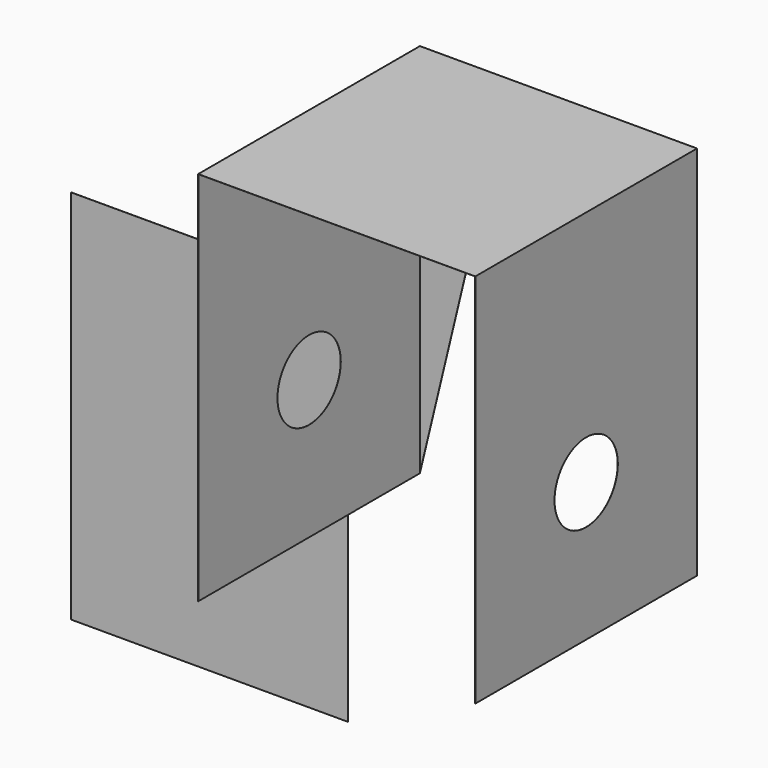
from build123d import *

# Parameters (mm, degrees)
F0_W      = 88.9
F0_H      = 120.65
F1_DEPTH  = 88.9
F3_T      = -0.0254
F4_DEPTH  = 25.4
F5_R      = 12.7
F6_DEPTH  = 127
F7_W      = 88.8492
F7_H      = 120.6246
F8_DEPTH  = 12.7
F9_W      = 88.9
F9_H      = 120.65
F10_DEPTH = 0.0254


with BuildPart() as f1:
    # F0 (on Front) → F1 (new body)
    with BuildSketch(Plane.XZ):
        with Locations((44.45, 60.325)):
            Rectangle(F0_W, F0_H)
    extrude(amount=F1_DEPTH)

    # F3
    f3_openings = [f1.faces().sort_by_distance(p)[0] for p in [
        (44.45, -44.45, 0),
    ]]
    offset(amount=F3_T, openings=f3_openings)

    # F2 (on face) → F4 (cut)
    with BuildSketch(Plane(origin=(0, 0, 0), x_dir=(-1, 0, 0), z_dir=(0, 1, 0))):
        with BuildLine():
            Line((-88.9, 0), (0, 0))
            Line((0, 0), (-19.7541437553, 82.1392494761))
            ThreePointArc((-19.7541437553, 82.1392494761), (-44.45, 101.6), (-69.1458562447, 82.1392494761))
            Line((-69.1458562447, 82.1392494761), (-88.9, 0))
        make_face()
    extrude(amount=-F4_DEPTH, mode=Mode.SUBTRACT)

    # F5 (on face) → F6 (cut)
    with BuildSketch(Plane.YZ.offset(88.9)):
        with Locations((-44.45, 44.45)):
            Circle(F5_R)
    extrude(amount=-F6_DEPTH, mode=Mode.SUBTRACT)

    # F7 (on face) → F8 (cut)
    with BuildSketch(Plane(origin=(0, -88.8746, 0), x_dir=(-1, 0, 0), z_dir=(0, 1, 0))):
        with Locations((-44.45, 60.3123)):
            Rectangle(F7_W, F7_H)
    extrude(amount=-F8_DEPTH, mode=Mode.SUBTRACT)


with BuildPart() as f10:
    # F9 (on Front) → F10 (new body)
    with BuildSketch(Plane.XZ):
        with Locations((-67.4515275559, -17.3582615852)):
            Rectangle(F9_W, F9_H)
    extrude(amount=F10_DEPTH)


solid = Compound([f1.part, f10.part])
